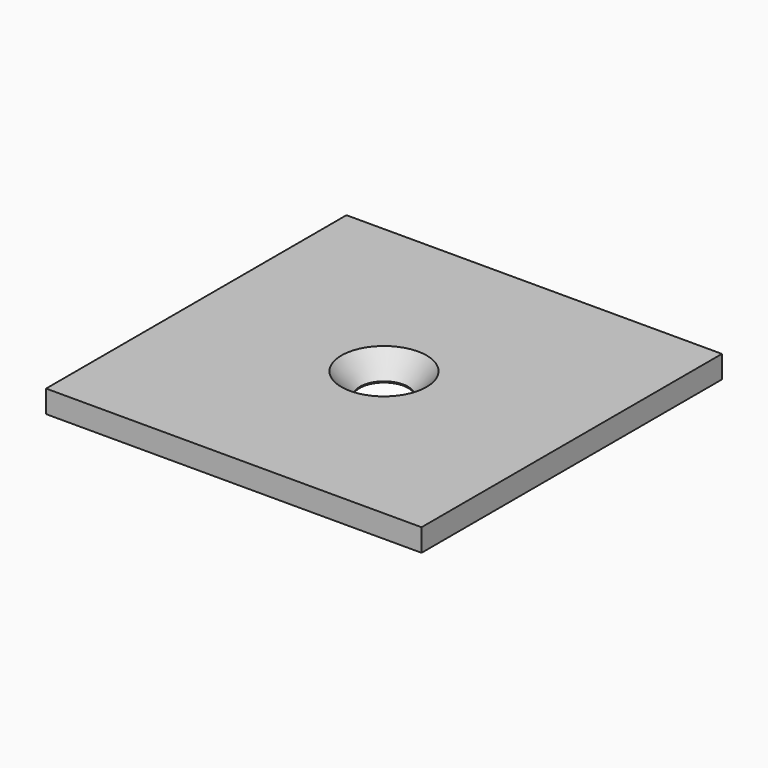
from build123d import *

# Parameters (mm, degrees)
F0_W     = 25.4
F0_H     = 25.4
F0_R     = 1.6256
F1_DEPTH = 1.524
F3_SIZE2 = 1.258553
F3_SIZE  = 1.4478


with BuildPart() as f1:
    # F0 (on Top) → F1 (new body)
    with BuildSketch(Plane.XY):
        Rectangle(F0_W, F0_H)
        Circle(F0_R, mode=Mode.SUBTRACT)
    extrude(amount=F1_DEPTH)

    # F3
    f3_edges = [f1.edges().sort_by_distance(p)[0] for p in [
        (-1.6256, 0, 1.524),
    ]]
    chamfer(f3_edges, length=F3_SIZE, length2=F3_SIZE2)


solid = f1.part
